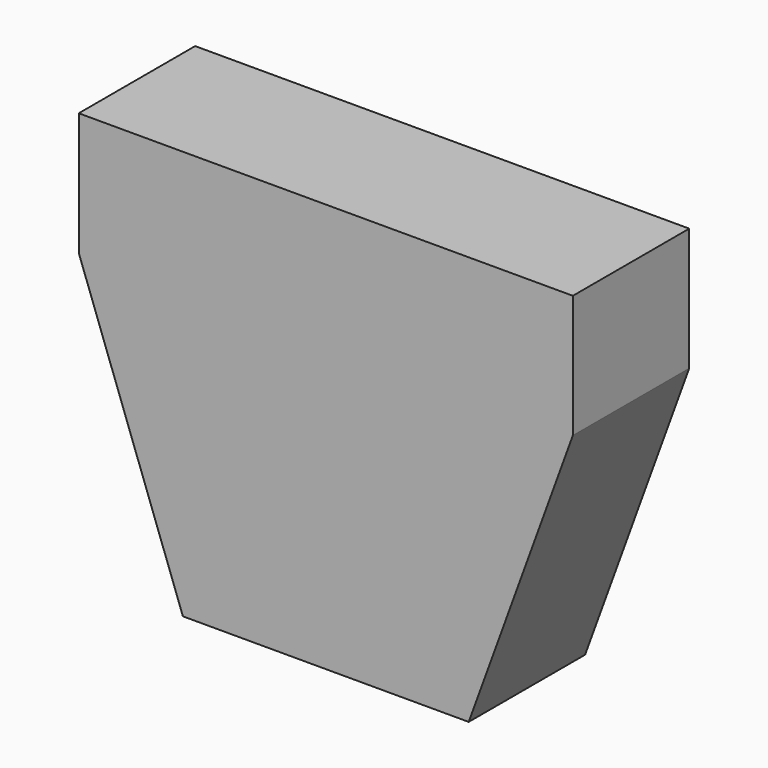
from build123d import *

# Parameters (mm, degrees)
BOX406008011_W               = 17.5
BOX406008011_H               = 13.3
BOX406008011_DEPTH           = 19.7
BOX406008011_PLACEMENT_ANGLE = 20
BOX406008010_W               = 17.5
BOX406008010_H               = 13.3
BOX406008010_DEPTH           = 19.7
BOX406008010_PLACEMENT_ANGLE = 20
BOX406008007_W               = 18
BOX406008007_H               = 5.3
BOX406008007_DEPTH           = 14.9


with BuildPart() as cube346:
    # Box406008011 → Box406008011 (new body)
    with BuildSketch(Plane.XY):
        with Locations((8.75, 6.65)):
            Rectangle(BOX406008011_W, BOX406008011_H)
    extrude(amount=BOX406008011_DEPTH)


with BuildPart() as cube346_1:
    # Box406008011 placement: moved
    add(cube346.part.moved(Location((3.75, 6, 30.3))).rotate(Axis((3.75, 6, 30.3), (0, 1, 0)), BOX406008011_PLACEMENT_ANGLE))


with BuildPart() as part_mirroring:
    # Part__Mirroring: instance of Cube346
    add(cube346_1.part.mirror(Plane(origin=(0, 0, 0), x_dir=(0, -1, 0), z_dir=(1, 0, 0))))


with BuildPart() as fusion:
    # Box406008010 → Box406008010 (new body)
    with BuildSketch(Plane.XY):
        with Locations((8.75, 6.65)):
            Rectangle(BOX406008010_W, BOX406008010_H)
    extrude(amount=BOX406008010_DEPTH)


with BuildPart() as fusion_1:
    # Box406008010 placement: moved
    add(fusion.part.moved(Location((3.75, 6, 30.3))).rotate(Axis((3.75, 6, 30.3), (0, 1, 0)), BOX406008010_PLACEMENT_ANGLE))

    # Fusion: union Part__Mirroring
    add(part_mirroring.part)


with BuildPart() as obj1:
    # Box406008007 → Box406008007 (new body)
    with BuildSketch(Plane(origin=(-9, 13, 34.3), x_dir=(1, 0, 0), z_dir=(0, 0, 1))):
        with Locations((9, 2.65)):
            Rectangle(BOX406008007_W, BOX406008007_H)
    extrude(amount=BOX406008007_DEPTH)

    # Cut: cut Fusion
    add(fusion_1.part, mode=Mode.SUBTRACT)


with BuildPart() as obj1_1:
    # Cut placement: moved
    add(obj1.part.moved(Location((0, -1.5, -14))))


solid = obj1_1.part
